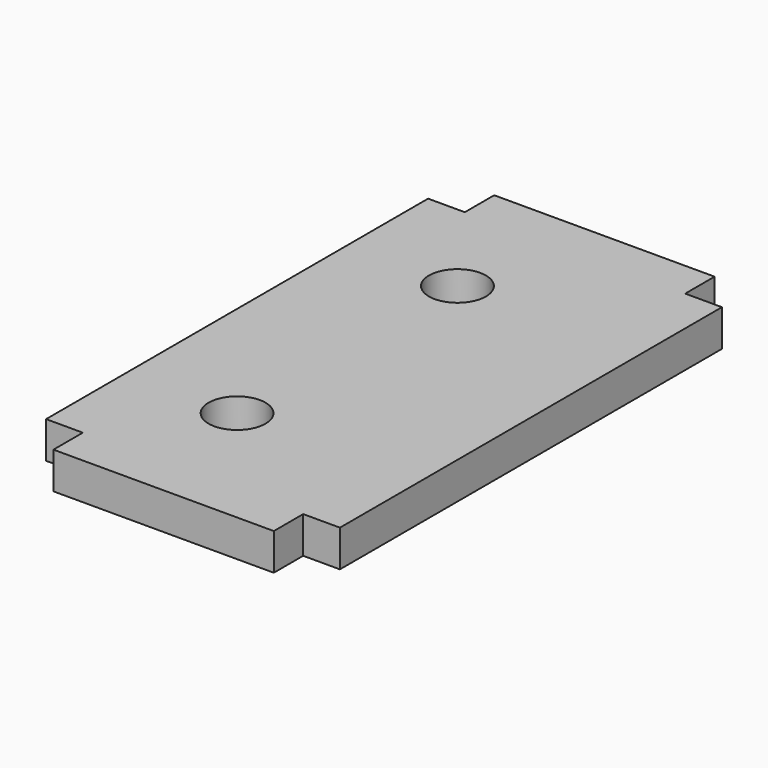
from build123d import *

# Parameters (mm, degrees)
PAD_DEPTH    = 5
SKETCH001_R  = 7.75
POCKET_DEPTH = 10.001


with BuildPart() as part:
    # Sketch → Pad (new body, symmetric)
    with BuildSketch(Plane.XY):
        Polygon((-10, 140), (-10, 10), (0, 10), (0, 0), (60, 0), (60, 10), (70, 10), (70, 140), (60, 140), (60, 150), (0, 150), (0, 140), align=None)
    extrude(amount=PAD_DEPTH, both=True)

    # Sketch001 (on Face13 of Pad) → Pocket (cut, through all)
    with BuildSketch(Plane(origin=(0, 0, -5), x_dir=(1, 0, 0), z_dir=(0, 0, -1))):
        with Locations((20, -37.5)):
            Circle(SKETCH001_R)
        with Locations((20, -112.5)):
            Circle(SKETCH001_R)
    extrude(amount=-POCKET_DEPTH, mode=Mode.SUBTRACT)


solid = part.part
